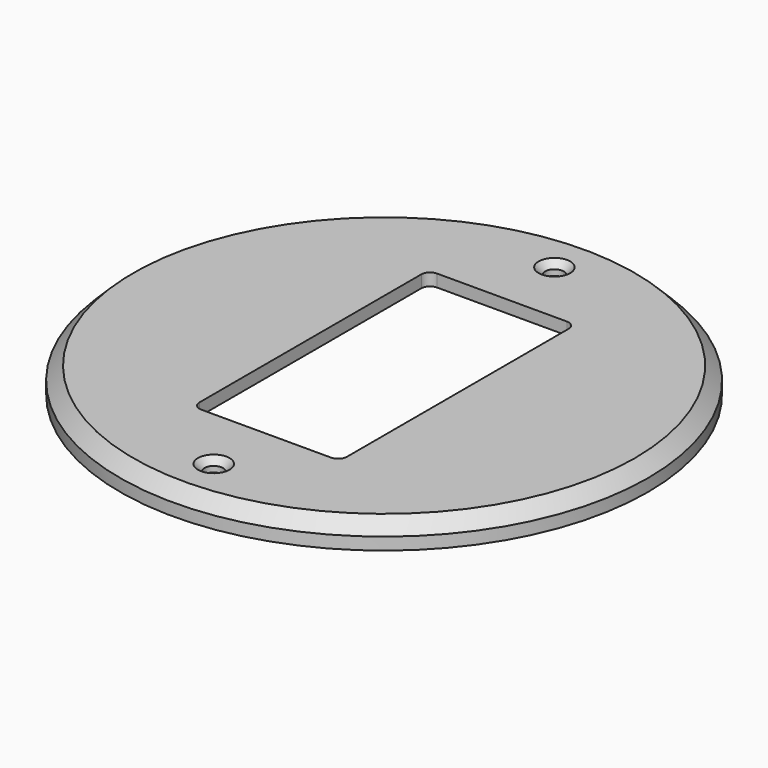
from build123d import *

# Parameters (mm, degrees)
F0_R     = 60
F0_R_2   = 57.6
F0_R_3   = 2.1
F1_DEPTH = 5.8
F2_SIZE  = 3
F3_DEPTH = 3
F4_SIZE  = 2
F5_SIZE  = 1.5


with BuildPart() as f1:
    # F0 (on Top) → F1 (new body)
    with BuildSketch(Plane.XY):
        Circle(F0_R)
        Circle(F0_R_2, mode=Mode.SUBTRACT)
        Circle(F0_R_2)
        with Locations((0, -48.4)):
            Circle(F0_R_3, mode=Mode.SUBTRACT)
        with BuildLine():
            Line((-14.75, 33.5), (14.75, 33.5))
            ThreePointArc((14.75, 33.5), (16.164214, 32.914214), (16.75, 31.5))
            Line((16.75, 31.5), (16.75, -31.5))
            ThreePointArc((16.75, -31.5), (16.164214, -32.914214), (14.75, -33.5))
            Line((14.75, -33.5), (-14.75, -33.5))
            ThreePointArc((-14.75, -33.5), (-16.164214, -32.914214), (-16.75, -31.5))
            Line((-16.75, -31.5), (-16.75, 31.5))
            ThreePointArc((-16.75, 31.5), (-16.164214, 32.914214), (-14.75, 33.5))
        make_face(mode=Mode.SUBTRACT)
        with Locations((0, 48.4)):
            Circle(F0_R_3, mode=Mode.SUBTRACT)
    extrude(amount=F1_DEPTH)

    # F2
    f2_edges = [f1.edges().sort_by_distance(p)[0] for p in [
        (-60, 0, 5.8),
    ]]
    chamfer(f2_edges, length=F2_SIZE)

    # F0 (on Top) → F3 (cut)
    with BuildSketch(Plane.XY):
        Circle(F0_R_2)
        with Locations((0, -48.4)):
            Circle(F0_R_3, mode=Mode.SUBTRACT)
        with BuildLine():
            Line((-14.75, 33.5), (14.75, 33.5))
            ThreePointArc((14.75, 33.5), (16.164214, 32.914214), (16.75, 31.5))
            Line((16.75, 31.5), (16.75, -31.5))
            ThreePointArc((16.75, -31.5), (16.164214, -32.914214), (14.75, -33.5))
            Line((14.75, -33.5), (-14.75, -33.5))
            ThreePointArc((-14.75, -33.5), (-16.164214, -32.914214), (-16.75, -31.5))
            Line((-16.75, -31.5), (-16.75, 31.5))
            ThreePointArc((-16.75, 31.5), (-16.164214, 32.914214), (-14.75, 33.5))
        make_face(mode=Mode.SUBTRACT)
        with Locations((0, 48.4)):
            Circle(F0_R_3, mode=Mode.SUBTRACT)
    extrude(amount=F3_DEPTH, mode=Mode.SUBTRACT)

    # F4
    f4_edges = [f1.edges().sort_by_distance(p)[0] for p in [
        (-57.6, 0, 3),
    ]]
    chamfer(f4_edges, length=F4_SIZE)

    # F5
    f5_edges = [f1.edges().sort_by_distance(p)[0] for p in [
        (-2.1, -48.4, 5.8),
        (-2.1, 48.4, 5.8),
    ]]
    chamfer(f5_edges, length=F5_SIZE)


solid = f1.part
